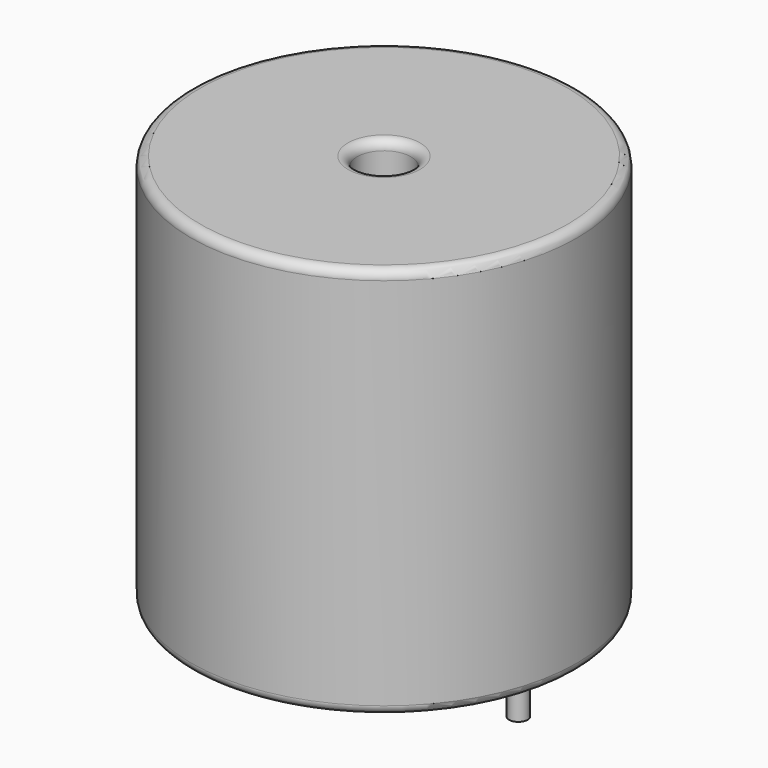
from build123d import *

# Parameters (mm, degrees)
SKETCH001_R       = 0.5
PAD001_DEPTH      = 10.67
PAD001_DEPTH_BACK = 3.5
SKETCH_R          = 10.5
SKETCH_R_2        = 1.46
PAD_DEPTH         = 21.34
FILLET_R          = 0.5


with BuildPart() as pad001:
    # Sketch001 → Pad001 (new body, two sides)
    with BuildSketch(Plane.XY.offset(0.5)) as pad001_sk:
        Circle(SKETCH001_R)
        with Locations((14.61, 0)):
            Circle(SKETCH001_R)
    extrude(amount=PAD001_DEPTH)
    extrude(pad001_sk.sketch, amount=-PAD001_DEPTH_BACK)


with BuildPart() as obj1:
    # Sketch → Pad (new body)
    with BuildSketch(Plane.XY.offset(0.1)):
        with Locations((7.305, 0)):
            Circle(SKETCH_R)
        with Locations((7.305, 0)):
            Circle(SKETCH_R_2, mode=Mode.SUBTRACT)
    extrude(amount=PAD_DEPTH)

    # Fillet
    fillet_edges = [obj1.edges().sort_by_distance(p)[0] for p in [
        (5.845, 0, 21.44),
        (-3.195, 0, 21.44),
        (-3.195, 0, 0.1),
    ]]
    fillet(fillet_edges, radius=FILLET_R)

    # obj1: union Pad001
    add(pad001.part)


solid = obj1.part
